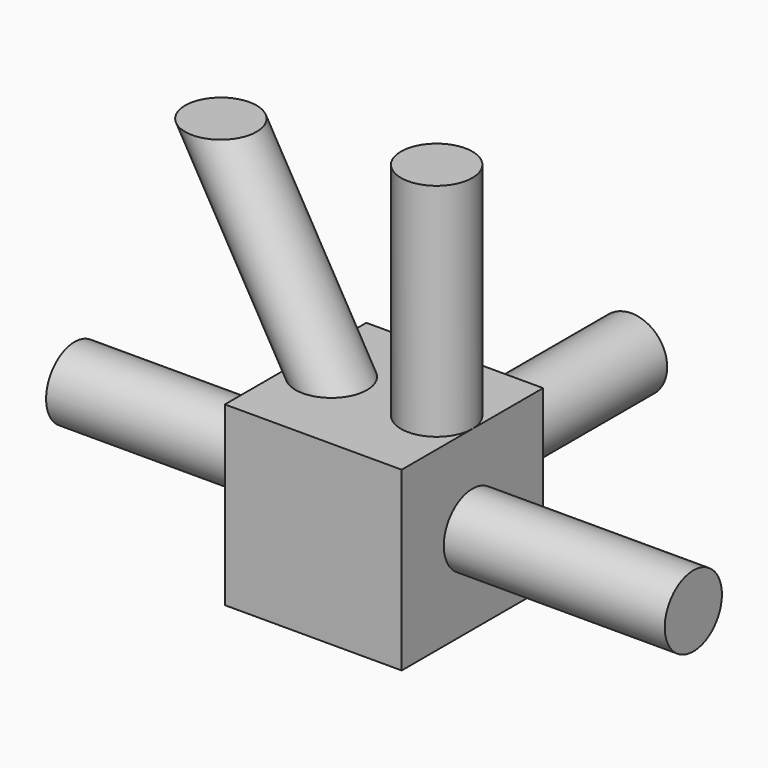
from build123d import *

# Parameters (mm, degrees)
F0_W      = 12
F0_H      = 12
F1_DEPTH  = 12
F2_R      = 2.425
F3_DEPTH  = 15
F4_R      = 2.425
F5_DEPTH  = 15
F6_R      = 2.425
F9_DEPTH  = 15
F10_R     = 2.425
F11_DEPTH = 15


with BuildPart() as f1:
    # F0 (on Top) → F1 (new body)
    with BuildSketch(Plane.XY):
        with Locations((-16.311498, 9.258204)):
            Rectangle(F0_W, F0_H)
    extrude(amount=F1_DEPTH)

    # F2 (on face) → F3 (join)
    with BuildSketch(Plane.YZ.offset(-10.311498)):
        with Locations((9.258204, 6)):
            Circle(F2_R)
    extrude(amount=F3_DEPTH)

    # F4 (on face) → F5 (join)
    with BuildSketch(Plane(origin=(-22.311498, 0, 0), x_dir=(0, -1, 0), z_dir=(-1, 0, 0))):
        with Locations((-9.258204, 6)):
            Circle(F4_R)
    extrude(amount=F5_DEPTH)

    # F8: sweep along a path in F7
    with BuildLine(Plane(origin=(0, 15.258204, 0), x_dir=(-1, 0, 0), z_dir=(0, 1, 0))) as f8_path:
        Line((19.886498, 12), (27.386498, 24.990381))
    # F6 (on face) → F8 (sweep)
    with BuildSketch(Plane.XY.offset(12)):
        with BuildLine():
            ThreePointArc((-22.311498, 9.258204), (-19.886498, 6.833204), (-17.461498, 9.258204))
            ThreePointArc((-17.461498, 9.258204), (-19.886498, 11.683204), (-22.311498, 9.258204))
        make_face()
    sweep(path=f8_path.line)

    # F6 (on face) → F9 (join)
    with BuildSketch(Plane.XY.offset(12)):
        with Locations((-12.736498, 9.258204)):
            Circle(F6_R)
    extrude(amount=F9_DEPTH)

    # F10 (on face) → F11 (join)
    with BuildSketch(Plane(origin=(0, 15.258204, 0), x_dir=(-1, 0, 0), z_dir=(0, 1, 0))):
        with Locations((16.311498, 6)):
            Circle(F10_R)
    extrude(amount=F11_DEPTH)


solid = f1.part
